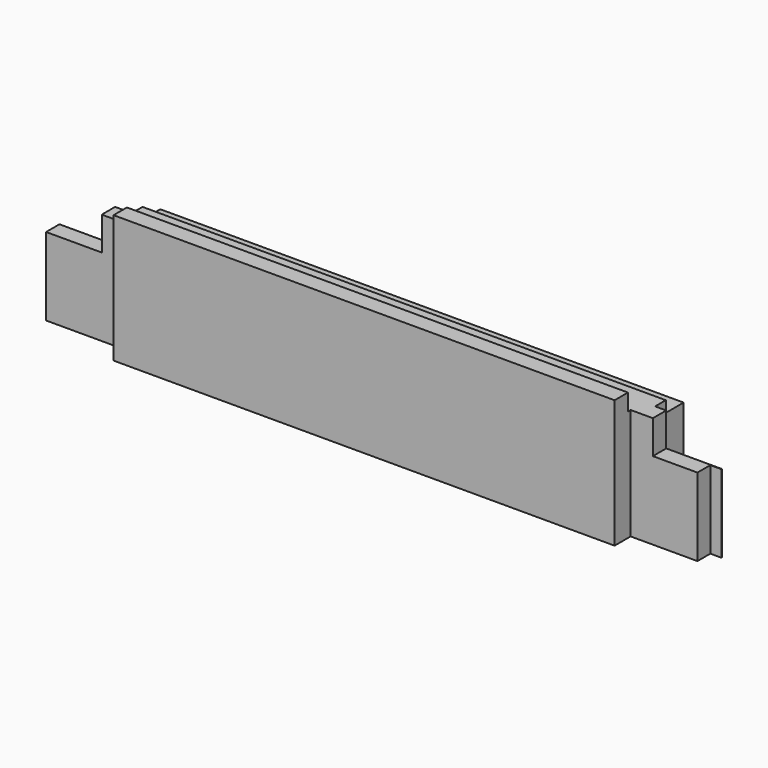
from build123d import *

# Parameters (mm, degrees)
SKETCH042_W     = 610
SKETCH042_H     = 115
PAD004_DEPTH    = 65
SKETCH043_W     = 60
SKETCH043_H     = 32
SKETCH043_W_2   = 70
SKETCH043_H_2   = 18
POCKET037_DEPTH = 115.001
SKETCH044_W     = 80
SKETCH044_H     = 32
SKETCH044_W_2   = 90
SKETCH044_H_2   = 18
POCKET038_DEPTH = 115.001
SKETCH045_W     = 50
SKETCH045_H     = 45
POCKET039_DEPTH = 65.001
SKETCH046_W     = 65
SKETCH046_H     = 45
POCKET040_DEPTH = 65.001
SKETCH047_W     = 30
SKETCH047_H     = 10
POCKET041_DEPTH = 15
SKETCH048_W     = 610
SKETCH048_H     = 32
POCKET042_DEPTH = 10
SKETCH049_W     = 20
SKETCH049_H     = 25
POCKET043_DEPTH = 610.001
SKETCH050_W     = 50
SKETCH050_H     = 15
POCKET044_DEPTH = 610.001
SKETCH051_W     = 15
SKETCH051_H     = 65
POCKET045_DEPTH = 115.001
SKETCH052_W     = 10
SKETCH052_H     = 32.5
POCKET046_DEPTH = 115.001


with BuildPart() as part:
    # Sketch042 (on DatumPlane) → Pad004 (new body)
    with BuildSketch(Plane.XZ.offset(32.5)):
        Rectangle(SKETCH042_W, SKETCH042_H)
    extrude(amount=-PAD004_DEPTH)

    # Sketch043 (on DatumPlane) → Pocket037 (cut, through all)
    with BuildSketch(Plane.XY.offset(57.5)):
        with Locations((275, 16.5)):
            Rectangle(SKETCH043_W, SKETCH043_H)
        with Locations((270, -23.5)):
            Rectangle(SKETCH043_W_2, SKETCH043_H_2)
    extrude(amount=-POCKET037_DEPTH, mode=Mode.SUBTRACT)

    # Sketch044 (on DatumPlane) → Pocket038 (cut, through all)
    with BuildSketch(Plane.XY.offset(57.5)):
        with Locations((-265, 16.5)):
            Rectangle(SKETCH044_W, SKETCH044_H)
        with Locations((-260, -23.5)):
            Rectangle(SKETCH044_W_2, SKETCH044_H_2)
    extrude(amount=-POCKET038_DEPTH, mode=Mode.SUBTRACT)

    # Sketch045 (on DatumPlane) → Pocket039 (cut, through all)
    with BuildSketch(Plane.XZ.offset(32.5)):
        with Locations((280, 35)):
            Rectangle(SKETCH045_W, SKETCH045_H)
    extrude(amount=-POCKET039_DEPTH, mode=Mode.SUBTRACT)

    # Sketch046 (on DatumPlane) → Pocket040 (cut, through all)
    with BuildSketch(Plane.XZ.offset(32.5)):
        with Locations((-272.5, 35)):
            Rectangle(SKETCH046_W, SKETCH046_H)
    extrude(amount=-POCKET040_DEPTH, mode=Mode.SUBTRACT)

    # Sketch047 (on DatumPlane) → Pocket041 (cut)
    with BuildSketch(Plane(origin=(0, 0, -57.5), x_dir=(-1, 0, 0), z_dir=(0, 0, -1))):
        with Locations((-10, -4.5)):
            Rectangle(SKETCH047_W, SKETCH047_H)
    extrude(amount=-POCKET041_DEPTH, mode=Mode.SUBTRACT)

    # Sketch048 (on DatumPlane) → Pocket042 (cut)
    with BuildSketch(Plane(origin=(0, 0, -57.5), x_dir=(-1, 0, 0), z_dir=(0, 0, -1))):
        with Locations((0, 16.5)):
            Rectangle(SKETCH048_W, SKETCH048_H)
    extrude(amount=-POCKET042_DEPTH, mode=Mode.SUBTRACT)

    # Sketch049 (on DatumPlane) → Pocket043 (cut, through all)
    with BuildSketch(Plane.YZ.offset(305)):
        with Locations((22.5, 45)):
            Rectangle(SKETCH049_W, SKETCH049_H)
    extrude(amount=-POCKET043_DEPTH, mode=Mode.SUBTRACT)

    # Sketch050 (on DatumPlane) → Pocket044 (cut, through all)
    with BuildSketch(Plane.YZ.offset(305)):
        with Locations((7.5, 50)):
            Rectangle(SKETCH050_W, SKETCH050_H)
    extrude(amount=-POCKET044_DEPTH, mode=Mode.SUBTRACT)

    # Sketch051 (on DatumPlane) → Pocket045 (cut, through all)
    with BuildSketch(Plane.XY.offset(57.5)):
        with Locations((-297.5, 0)):
            Rectangle(SKETCH051_W, SKETCH051_H)
    extrude(amount=-POCKET045_DEPTH, mode=Mode.SUBTRACT)

    # Sketch052 (on DatumPlane) → Pocket046 (cut, through all)
    with BuildSketch(Plane.XY.offset(57.5)):
        with Locations((300, -16.25)):
            Rectangle(SKETCH052_W, SKETCH052_H)
    extrude(amount=-POCKET046_DEPTH, mode=Mode.SUBTRACT)


solid = part.part
